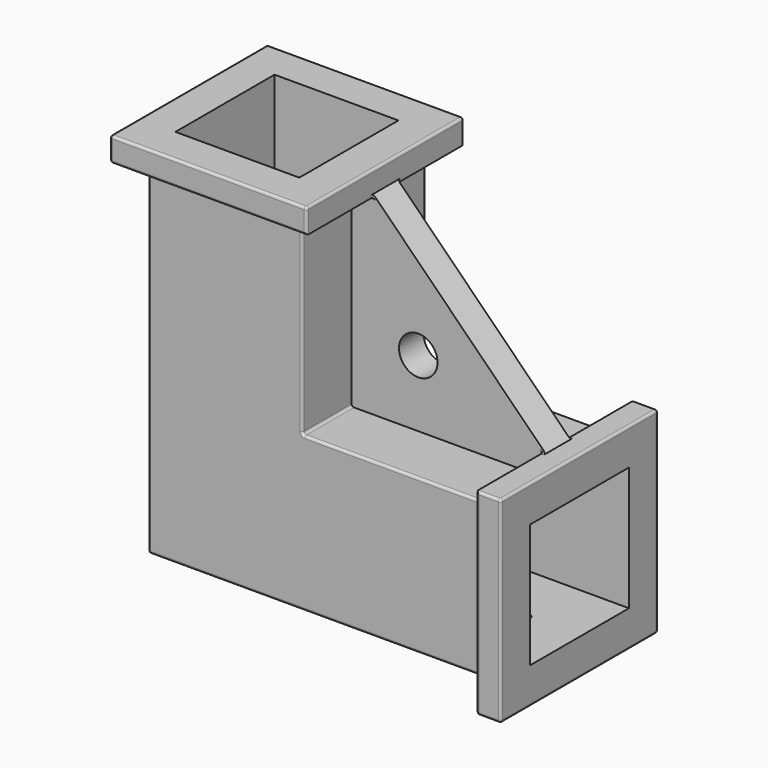
from build123d import *

# Parameters (mm, degrees)
PAD_DEPTH       = 63.5
SKETCH001_W     = 51.05
SKETCH001_H     = 51.05
POCKET_DEPTH    = 88.9
SKETCH002_W     = 51.05
SKETCH002_H     = 51.05
POCKET001_DEPTH = 88.9
SKETCH003_R     = 7.9375
PAD001_DEPTH    = 12.7
SKETCH004_R     = 2
POCKET002_DEPTH = 6.35
SKETCH005_R     = 2
POCKET003_DEPTH = 6.35
SKETCH006_W     = 81.05
SKETCH006_H     = 81.05
SKETCH006_W_2   = 51.05
SKETCH006_H_2   = 51.05
PAD002_DEPTH    = 10
SKETCH007_W     = 81.05
SKETCH007_H     = 81.05
SKETCH007_W_2   = 51.05
SKETCH007_H_2   = 51.05
PAD003_DEPTH    = 10
FILLET_R        = 1


with BuildPart() as part:
    # Sketch → Pad (new body)
    with BuildSketch(Plane.XZ):
        Polygon((0, 152.4), (0, 0), (152.4, 0), (152.4, 63.5), (63.5, 63.5), (63.5, 152.4), align=None)
    extrude(amount=PAD_DEPTH)

    # Sketch001 (on Face6 of Pad) → Pocket (cut)
    with BuildSketch(Plane(origin=(0, 0, 152.4), x_dir=(-1, 0, 0), z_dir=(0, 0, 1))):
        with Locations((-31.875, 31.875)):
            Rectangle(SKETCH001_W, SKETCH001_H)
    extrude(amount=-POCKET_DEPTH, mode=Mode.SUBTRACT)

    # Sketch002 (on Face11 of Pocket) → Pocket001 (cut)
    with BuildSketch(Plane(origin=(152.4, 0, 0), x_dir=(0, 0, 1), z_dir=(1, 0, 0))):
        with Locations((31.875, 31.875)):
            Rectangle(SKETCH002_W, SKETCH002_H)
    extrude(amount=-POCKET001_DEPTH, mode=Mode.SUBTRACT)

    # Sketch003 → Pad001 (join)
    with BuildSketch(Plane.XZ.offset(25.4)):
        Polygon((63.5, 152.4), (63.5, 63.5), (152.4, 63.5), align=None)
        with Locations((90.979437, 90.979437)):
            Circle(SKETCH003_R, mode=Mode.SUBTRACT)
    extrude(amount=PAD001_DEPTH)

    # Sketch004 (on Face1 of Pad001) → Pocket002 (cut)
    with BuildSketch(Plane(origin=(0, 0, 0), x_dir=(0, 0, -1), z_dir=(-1, 0, 0))):
        with Locations((-130, 31.75)):
            Circle(SKETCH004_R)
        with Locations((-88.9, 31.75)):
            Circle(SKETCH004_R)
    extrude(amount=-POCKET002_DEPTH, mode=Mode.SUBTRACT)

    # Sketch005 (on Face5 of Pocket002) → Pocket003 (cut)
    with BuildSketch(Plane(origin=(0, 0, 0), x_dir=(1, 0, 0), z_dir=(0, 0, -1))):
        with Locations((88.9, 31.75)):
            Circle(SKETCH005_R)
        with Locations((130, 31.75)):
            Circle(SKETCH005_R)
    extrude(amount=-POCKET003_DEPTH, mode=Mode.SUBTRACT)

    # Sketch006 (on Face2 of Pocket003) → Pad002 (join)
    with BuildSketch(Plane(origin=(0, 0, 152.4), x_dir=(-1, 0, 0), z_dir=(0, 0, 1))):
        with Locations((-31.875, 31.875)):
            Rectangle(SKETCH006_W, SKETCH006_H)
        with Locations((-31.875, 31.875)):
            Rectangle(SKETCH006_W_2, SKETCH006_H_2, mode=Mode.SUBTRACT)
    extrude(amount=-PAD002_DEPTH)

    # Sketch007 (on Face18 of Pad002) → Pad003 (join)
    with BuildSketch(Plane(origin=(152.4, 0, 0), x_dir=(0, 0, 1), z_dir=(1, 0, 0))):
        with Locations((31.875, 31.875)):
            Rectangle(SKETCH007_W, SKETCH007_H)
        with Locations((31.875, 31.875)):
            Rectangle(SKETCH007_W_2, SKETCH007_H_2, mode=Mode.SUBTRACT)
    extrude(amount=-PAD003_DEPTH)

    # Fillet
    fillet_edges = [part.edges().sort_by_distance(p)[0] for p in [
        (63.5, -50.8, 63.5),
        (63.5, -12.7, 63.5),
        (63.5, -50.8, 142.4),
        (63.5, -12.7, 142.4),
        (142.4, -50.8, 63.5),
        (142.4, -12.7, 63.5),
        (142.4, -25.4, 67.95),
        (142.4, -38.1, 67.95),
        (67.95, -38.1, 142.4),
        (67.95, -25.4, 142.4),
        (102.95, -25.4, 63.5),
        (63.5, -25.4, 102.95),
        (102.95, 0, 63.5),
        (63.5, 0, 102.95),
        (72.4, -25.4, 142.95),
        (72.4, 8.65, 147.4),
        (147.4, 8.65, 72.4),
        (147.4, 8.65, -8.65),
        (147.4, -72.4, -8.65),
        (142.4, -31.75, 0),
        (142.4, 0, 31.75),
        (31.75, 0, 142.4),
        (147.4, -72.4, 72.4),
        (-8.65, 8.65, 147.4),
        (-8.65, -72.4, 147.4),
        (72.4, -72.4, 147.4),
        (-8.65, -31.875, 142.4),
        (31.875, 8.65, 142.4),
        (0, -31.75, 142.4),
        (31.75, -63.5, 142.4),
        (31.875, -72.4, 142.4),
        (0, -63.5, 71.2),
        (71.2, -63.5, 0),
        (0, -31.75, 0),
        (0, 0, 71.2),
        (71.2, 0, 0),
        (142.4, 8.65, 31.875),
        (142.4, -31.875, -8.65),
        (31.875, 8.65, 152.4),
        (-8.65, -31.875, 152.4),
        (31.875, -72.4, 152.4),
        (72.4, -31.875, 152.4),
        (152.4, -72.4, 31.875),
        (152.4, -31.875, -8.65),
        (152.4, 8.65, 31.875),
        (152.4, -31.875, 72.4),
        (102.95, -63.5, 63.5),
        (63.5, -63.5, 102.95),
        (142.4, -72.4, 31.875),
        (142.95, -38.1, 72.4),
        (142.95, -25.4, 72.4),
        (72.4, -38.1, 142.95),
    ]]
    fillet(fillet_edges, radius=FILLET_R)


solid = part.part
